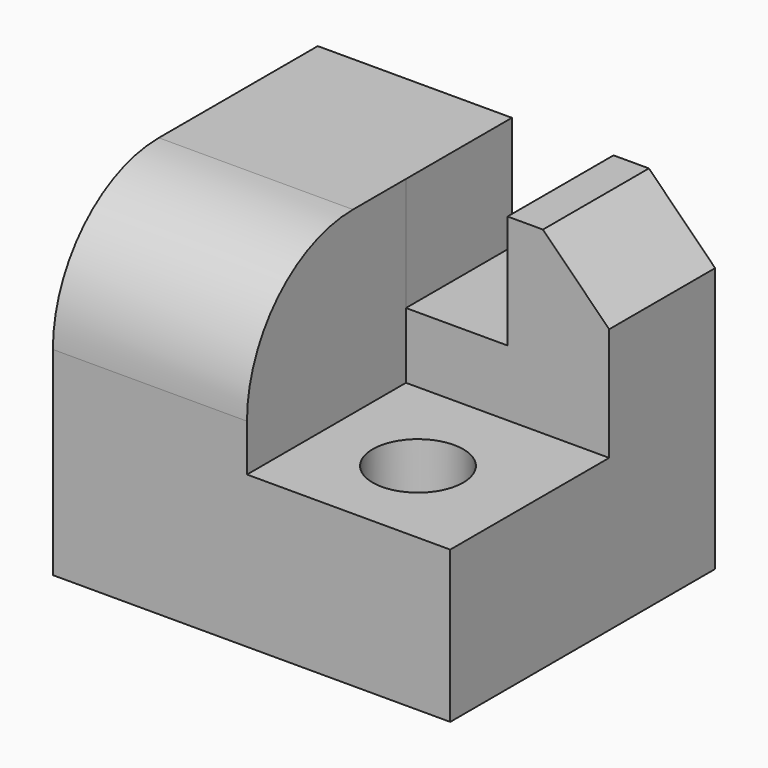
from build123d import *

# Parameters (mm, degrees)
F0_W     = 152.4
F0_H     = 127
F1_DEPTH = 127
F3_DEPTH = 76.2
F4_W     = 38.972323
F4_H     = 43.56414
F5_DEPTH = 50.801
F6_R     = 17.360995
F7_DEPTH = 58.177971
F8_SIZE  = 25.4
F9_R     = 50.8


with BuildPart() as f1:
    # F0 (on Front) → F1 (new body)
    with BuildSketch(Plane.XZ):
        with Locations((1.744647, 5.323029)):
            Rectangle(F0_W, F0_H)
    extrude(amount=F1_DEPTH)

    # F2 (on face) → F3 (cut)
    with BuildSketch(Plane.XZ.offset(127)):
        Polygon((1.744647, 68.823029), (0, 68.823029), (0, 0), (77.944647, 0), (77.944647, 68.823029), align=None)
    extrude(amount=-F3_DEPTH, mode=Mode.SUBTRACT)

    # F4 (on face) → F5 (cut, through all)
    with BuildSketch(Plane.XZ.offset(50.8)):
        with Locations((19.486161, 47.040959)):
            Rectangle(F4_W, F4_H)
    extrude(amount=-F5_DEPTH, mode=Mode.SUBTRACT)

    # F6 (on face) → F7 (cut, through all)
    with BuildSketch(Plane.XY):
        with Locations((36.480688, -90.639494)):
            Circle(F6_R)
    extrude(amount=-F7_DEPTH, mode=Mode.SUBTRACT)

    # F8
    f8_edges = [f1.edges().sort_by_distance(p)[0] for p in [
        (77.944647, -25.4, 68.823029),
    ]]
    chamfer(f8_edges, length=F8_SIZE)

    # F9
    f9_edges = [f1.edges().sort_by_distance(p)[0] for p in [
        (-37.227677, -127, 68.823029),
    ]]
    fillet(f9_edges, radius=F9_R)


solid = f1.part
